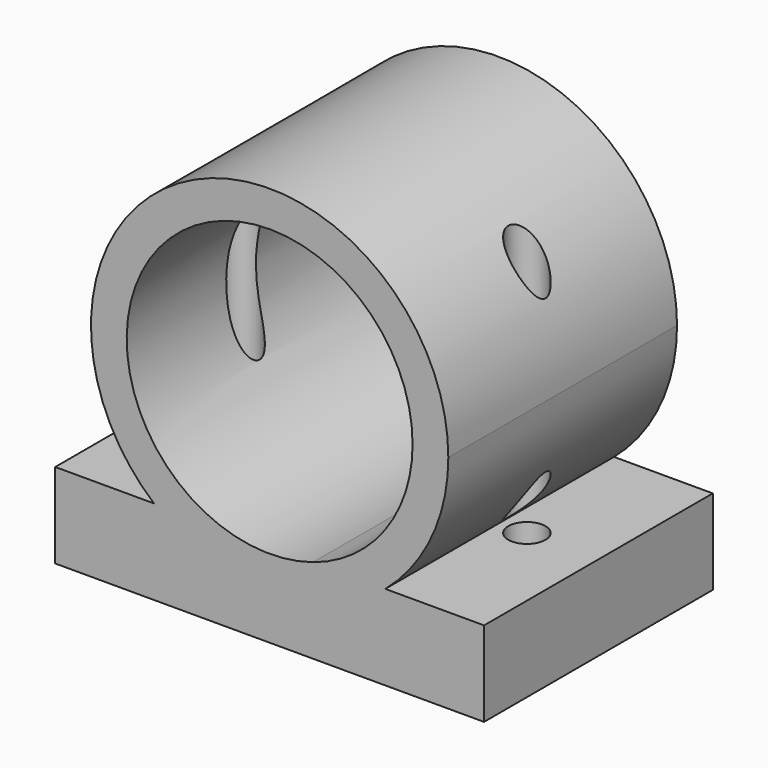
from build123d import *

# Parameters (mm, degrees)
F1_DEPTH = 50.8
F3_D     = 6.604


with BuildPart() as f1:
    # F0 (on Front) → F1 (new body)
    with BuildSketch(Plane.XZ):
        with BuildLine():
            ThreePointArc((-7.7199247783, -24.1984041089), (-14.9845572279, 20.5090966326), (25.4, 0))
            ThreePointArc((25.4, 0), (20.5090966326, -14.9845572279), (7.7199247783, -24.1984041089))
            Line((7.7199247783, -24.1984041089), (20.5547984321, -24.1984041089))
            ThreePointArc((20.5547984321, -24.1984041089), (28.8155977746, -13.3313099465), (31.75, 0))
            ThreePointArc((31.75, 0), (-13.3313099465, 28.8155977746), (-20.5547984321, -24.1984041089))
            Line((-20.5547984321, -24.1984041089), (-7.7199247783, -24.1984041089))
        make_face()
        with BuildLine():
            ThreePointArc((7.7199247783, -24.1984041089), (0, -25.4), (-7.7199247783, -24.1984041089))
            Line((-7.7199247783, -24.1984041089), (-20.5547984321, -24.1984041089))
            ThreePointArc((-20.5547984321, -24.1984041089), (0, -31.75), (20.5547984321, -24.1984041089))
            Line((20.5547984321, -24.1984041089), (7.7199247783, -24.1984041089))
        make_face()
        with BuildLine():
            ThreePointArc((20.5547984321, -24.1984041089), (0, -31.75), (-20.5547984321, -24.1984041089))
            Line((-20.5547984321, -24.1984041089), (-38.1, -24.1984041089))
            Line((-38.1, -24.1984041089), (-38.1, -39.3015958911))
            Line((-38.1, -39.3015958911), (38.1, -39.3015958911))
            Line((38.1, -39.3015958911), (38.1, -24.1984041089))
            Line((38.1, -24.1984041089), (20.5547984321, -24.1984041089))
        make_face()
    extrude(amount=F1_DEPTH)

    # F3 (through all)
    with Locations(Plane(origin=(0, 0, -39.3015958911), x_dir=(1, 0, 0), z_dir=(0, 0, -1))):
        with Locations((-25.4, 25.4), (25.4, 25.4)):
            Hole(F3_D / 2)


solid = f1.part
